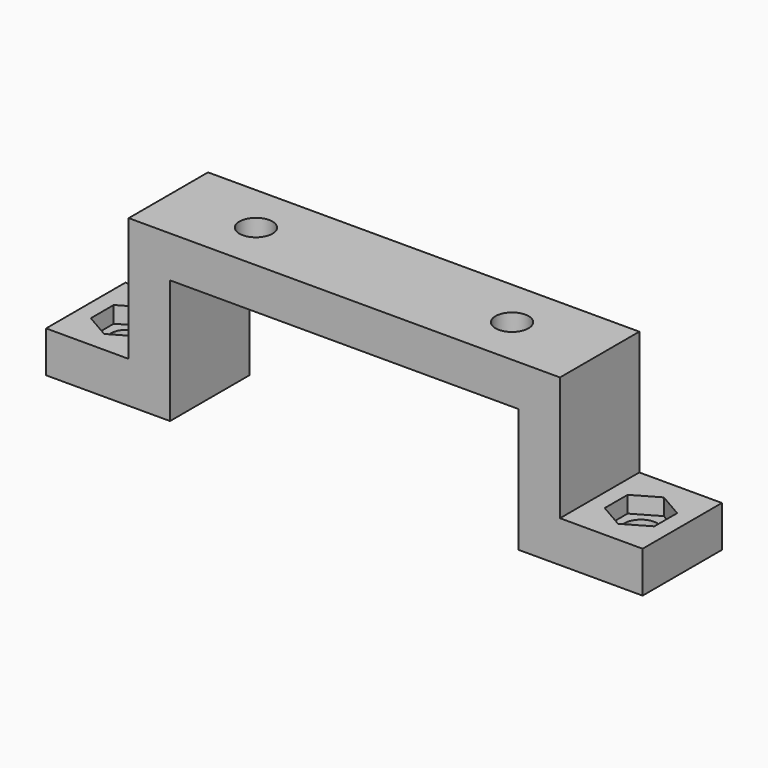
from build123d import *

# Parameters (mm, degrees)
F0_W     = 42.2
F0_H     = 12
F0_R     = 2
F0_W_2   = 5
F1_DEPTH = 5
F2_DEPTH = 15
F3_W     = 12
F3_H     = 5
F4_DEPTH = 10
F5_W     = 12
F5_H     = 5
F6_DEPTH = 10
F7_R     = 2
F8_DEPTH = 5
F9_DEPTH = 2


with BuildPart() as f1:
    # F0 (on Top) → F1 (new body)
    with BuildSketch(Plane.XY):
        Rectangle(F0_W, F0_H)
        with Locations((-15.5, 0)):
            Circle(F0_R, mode=Mode.SUBTRACT)
        with Locations((15.5, 0)):
            Circle(F0_R, mode=Mode.SUBTRACT)
        with Locations((23.6, 0)):
            Rectangle(F0_W_2, F0_H)
        with Locations((-23.6, 0)):
            Rectangle(F0_W_2, F0_H)
    extrude(amount=F1_DEPTH)

    # F0 (on Top) → F2 (join)
    with BuildSketch(Plane.XY):
        with Locations((23.6, 0)):
            Rectangle(F0_W_2, F0_H)
        with Locations((-23.6, 0)):
            Rectangle(F0_W_2, F0_H)
    extrude(amount=-F2_DEPTH)

    # F3 (on face) → F4 (join)
    with BuildSketch(Plane(origin=(-26.1, 0, 0), x_dir=(0, -1, 0), z_dir=(-1, 0, 0))):
        with Locations((0, -12.5)):
            Rectangle(F3_W, F3_H)
    extrude(amount=F4_DEPTH)

    # F5 (on face) → F6 (join)
    with BuildSketch(Plane.YZ.offset(26.1)):
        with Locations((0, -12.5)):
            Rectangle(F5_W, F5_H)
    extrude(amount=F6_DEPTH)

    # F7 (on face) → F8 (cut)
    with BuildSketch(Plane.XY.offset(-10)):
        with Locations((31.1, 0)):
            Circle(F7_R)
        with Locations((-31.1, 0)):
            Circle(F7_R)
    extrude(amount=-F8_DEPTH, mode=Mode.SUBTRACT)

    # F7 (on face) → F9 (cut)
    with BuildSketch(Plane.XY.offset(-10)):
        Polygon((28.1, 1.732051), (28.1, -1.732051), (31.1, -3.464102), (34.1, -1.732051), (34.1, 1.732051), (31.1, 3.464102), align=None)
        with Locations((31.1, 0)):
            Circle(F7_R, mode=Mode.SUBTRACT)
        Polygon((-34.1, -1.732051), (-31.1, -3.464102), (-28.1, -1.732051), (-28.1, 1.732051), (-31.1, 3.464102), (-34.1, 1.732051), align=None)
        with Locations((-31.1, 0)):
            Circle(F7_R, mode=Mode.SUBTRACT)
    extrude(amount=-F9_DEPTH, mode=Mode.SUBTRACT)


solid = f1.part
